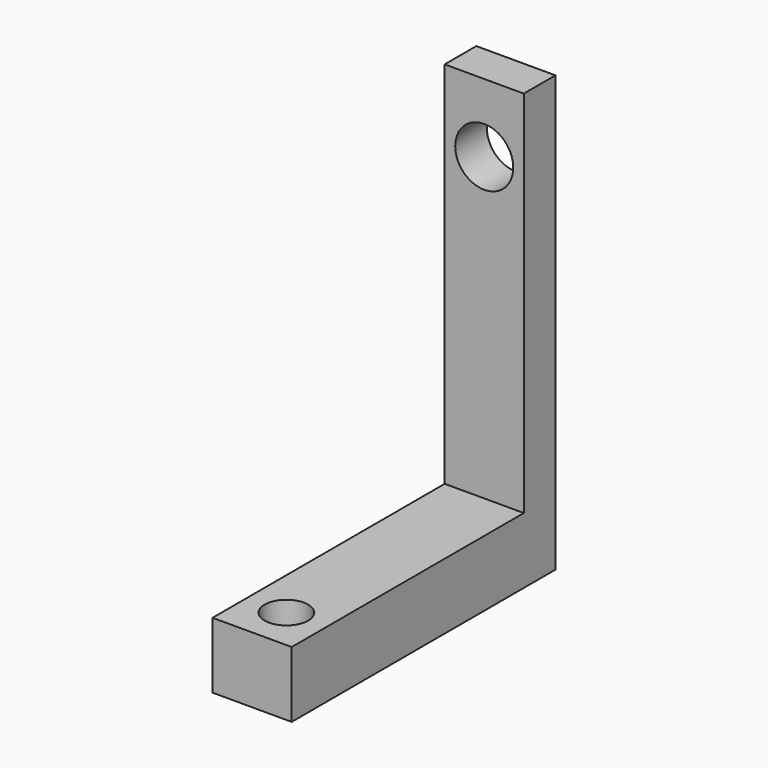
from build123d import *

# Parameters (mm, degrees)
F0_W     = 6
F0_H     = 22
F1_DEPTH = 5
F3_DEPTH = 6
F5_D     = 3.3
F7_D     = 4.4


with BuildPart() as f1:
    # F0 (on Top) → F1 (new body)
    with BuildSketch(Plane.XY):
        with Locations((-2.4757032864, -3.9350604638)):
            Rectangle(F0_W, F0_H)
    extrude(amount=F1_DEPTH)

    # F2 (on face) → F3 (join)
    with BuildSketch(Plane(origin=(-5.4757032864, 0, 0), x_dir=(0, -1, 0), z_dir=(-1, 0, 0))):
        Polygon((-10.0649395362, 0), (-7.0649395362, 0), (-7.0649395362, 5), (-7.0649395362, 33), (-10.0649395362, 33), align=None)
    extrude(amount=-F3_DEPTH)

    # F5 (through all)
    with Locations(Plane.XY.offset(5)):
        with Locations((-2.4757032864, -11.6850604638)):
            Hole(F5_D / 2)

    # F7 (through all)
    with Locations(Plane.XZ.offset(-7.0649395362)):
        with Locations((-2.4757032864, 27.8)):
            Hole(F7_D / 2)


solid = f1.part
